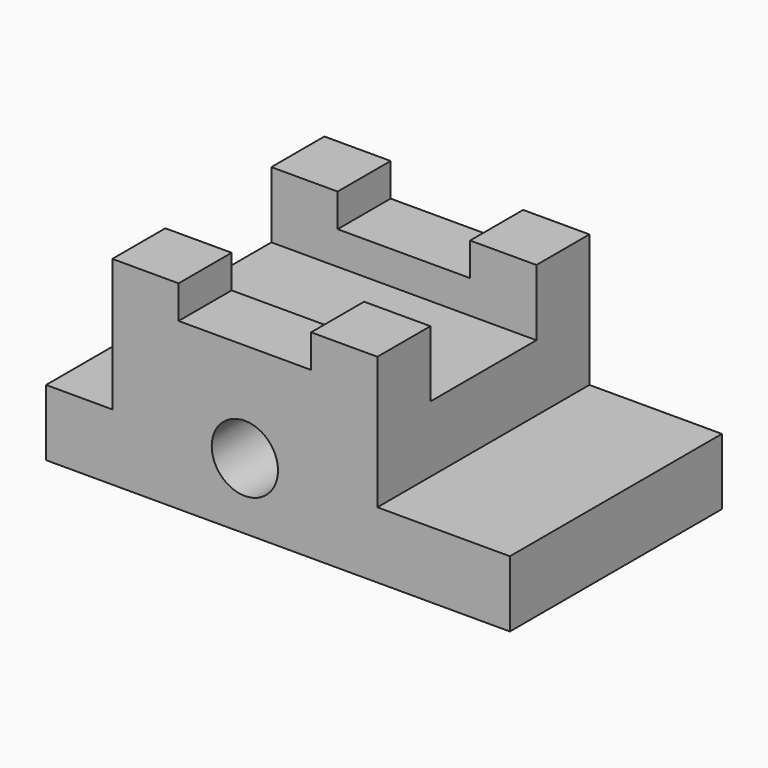
from build123d import *

# Parameters (mm, degrees)
F1_DEPTH = 12.7
F2_DEPTH = 25.4
F0_W     = 12.7
F0_H     = 12.7
F3_DEPTH = 38.1
F0_W_2   = 25.4
F4_DEPTH = 31.75
F7_D     = 12.7


with BuildPart() as f1:
    # F0 (on Top) → F1 (new body)
    with BuildSketch(Plane.XY):
        Polygon((29.504035, 30.00493), (4.104035, 30.00493), (4.104035, 17.30493), (4.104035, -8.09507), (4.104035, -20.79507), (29.504035, -20.79507), align=None)
        Polygon((-46.695965, 30.00493), (-59.395965, 30.00493), (-59.395965, -20.79507), (-46.695965, -20.79507), (-46.695965, -8.09507), (-46.695965, 17.30493), align=None)
    extrude(amount=F1_DEPTH)


with BuildPart() as f2:
    # F0 (on Top) → F2 (new body)
    with BuildSketch(Plane.XY):
        Polygon((-33.995965, 17.30493), (-46.695965, 17.30493), (-46.695965, -8.09507), (-33.995965, -8.09507), (-8.595965, -8.09507), (4.104035, -8.09507), (4.104035, 17.30493), (-8.595965, 17.30493), align=None)
    extrude(amount=F2_DEPTH)


with BuildPart() as f3:
    # F0 (on Top) → F3 (new body)
    with BuildSketch(Plane.XY):
        with Locations((-40.345965, -14.44507)):
            Rectangle(F0_W, F0_H)
        with Locations((-40.345965, 23.65493)):
            Rectangle(F0_W, F0_H)
        with Locations((-2.245965, 23.65493)):
            Rectangle(F0_W, F0_H)
        with Locations((-2.245965, -14.44507)):
            Rectangle(F0_W, F0_H)
    extrude(amount=F3_DEPTH)


with BuildPart() as f4:
    # F0 (on Top) → F4 (new body)
    with BuildSketch(Plane.XY):
        with Locations((-21.295965, 23.65493)):
            Rectangle(F0_W_2, F0_H)
        with Locations((-21.295965, -14.44507)):
            Rectangle(F0_W_2, F0_H)
    extrude(amount=F4_DEPTH)


with BuildPart() as f1_1:
    add(f1.part)

    # F5: union F2, F3, F4
    add(f2.part)
    add(f3.part)
    add(f4.part)

    # F7 (through all)
    with Locations(Plane.XZ.offset(20.79507)):
        with Locations((-21.295965, 12.7)):
            Hole(F7_D / 2)


solid = f1_1.part
